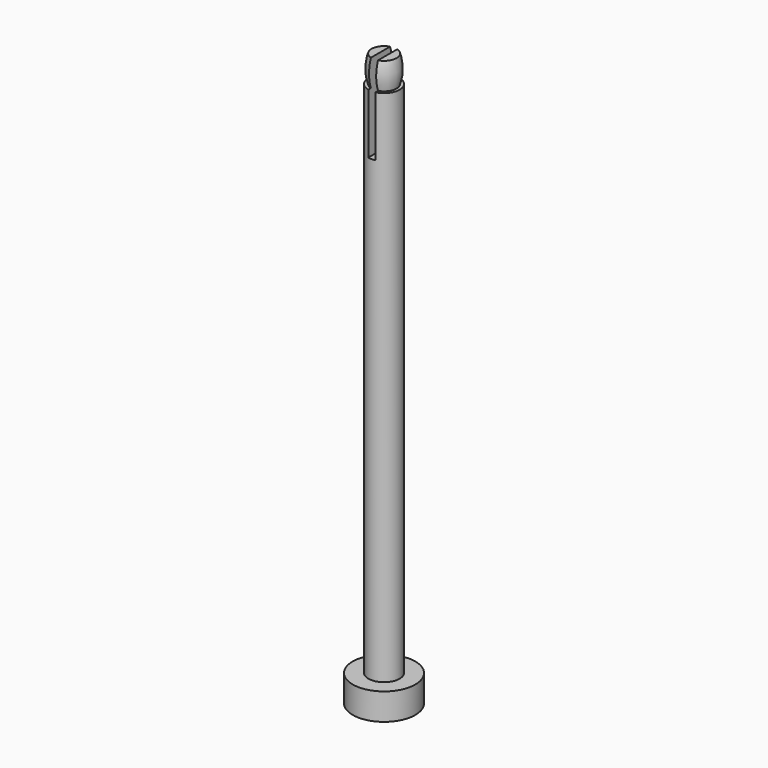
from build123d import *

# Parameters (mm, degrees)
F0_R          = 2.2225
F1_DEPTH      = 40.64
F1_DEPTH_BACK = 40.64
F2_R          = 4.445
F2_R_2        = 2.2225
F3_DEPTH      = 3.81
F6_W          = 1.016
F6_H          = 12.7
F7_DEPTH      = 25.4
F7_DEPTH_BACK = 25.4


with BuildPart() as f1:
    # F0 (on Top) → F1 (new body, two sides)
    with BuildSketch(Plane.XY) as f1_sk:
        Circle(F0_R)
    extrude(amount=F1_DEPTH)
    extrude(f1_sk.sketch, amount=-F1_DEPTH_BACK)

    # F2 (on face) → F3 (join)
    with BuildSketch(Plane(origin=(0, 0, -40.64), x_dir=(1, 0, 0), z_dir=(0, 0, -1))):
        Circle(F2_R)
        Circle(F2_R_2, mode=Mode.SUBTRACT)
    extrude(amount=-F3_DEPTH)

    # F4 (on Front) → F5 (revolve, cut)
    with BuildSketch(Plane.XZ):
        with BuildLine():
            ThreePointArc((-1.778, 36.83), (-2.0915595064, 38.735), (-1.778, 40.64))
            Line((-1.778, 40.64), (-5.5500328927, 40.64))
            Line((-5.5500328927, 40.64), (-5.5500328927, 36.83))
            Line((-5.5500328927, 36.83), (-1.778, 36.83))
        make_face()
    revolve(axis=Axis((0, 0, 38.735), (0, 0, -1)), mode=Mode.SUBTRACT)

    # F6 (on Front) → F7 (cut, two sides)
    with BuildSketch(Plane.XZ) as f7_sk:
        with Locations((0, 34.6862748265)):
            Rectangle(F6_W, F6_H)
    extrude(amount=-F7_DEPTH, mode=Mode.SUBTRACT)
    extrude(f7_sk.sketch, amount=F7_DEPTH_BACK, mode=Mode.SUBTRACT)


solid = f1.part
